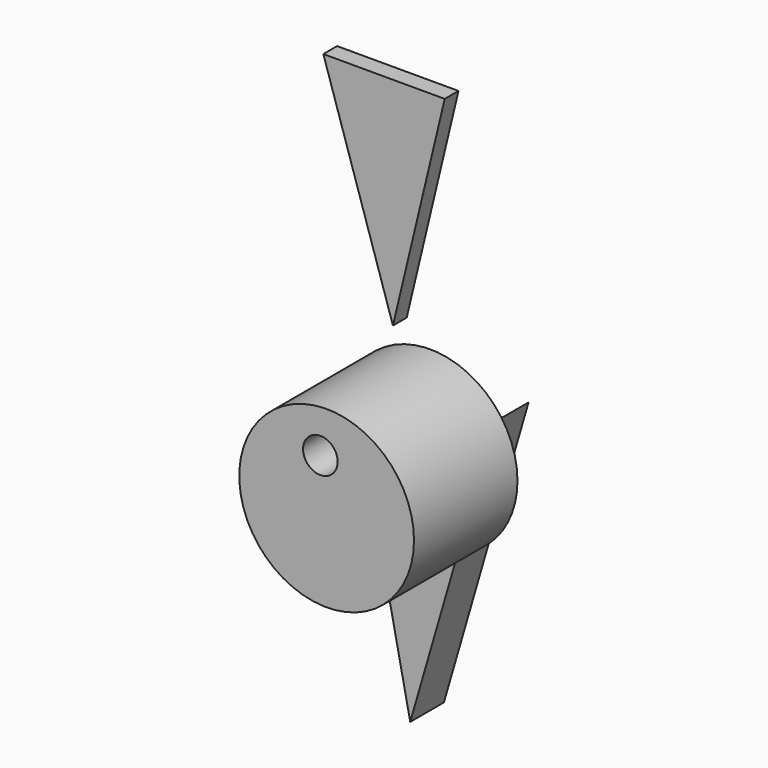
from build123d import *

# Parameters (mm, degrees)
F1_DEPTH = 7.5402432121
F2_DEPTH = 1.4253571862
F3_R     = 18.605552665
F4_DEPTH = 27.5406818837
F6_DEPTH = 3.6672297865
F8_D     = 7.366


with BuildPart() as f1:
    # F0 (on Front) → F1 (new body)
    with BuildSketch(Plane.XZ):
        with BuildLine():
            ThreePointArc((-29.7449376156, -105.363153987), (-42.5752824221, -117.3303519227), (-59.202212781, -111.7288555937))
            Line((-59.202212781, -111.7288555937), (-47.7732121944, -167.4931943417))
            Line((-47.7732121944, -167.4931943417), (-29.7449376156, -105.363153987))
        make_face()
    extrude(amount=-F1_DEPTH)

    # F2 (add): a face of the model
    f2_faces = [f1.faces().sort_by_distance(p)[0] for p in [
        (-46.1184940626, 0, -132.847419827),
    ]]
    extrude(f2_faces, amount=F2_DEPTH)

    # F3 (on Front) → F4 (join)
    with BuildSketch(Plane.XZ):
        with Locations((-44.6806028485, -115.7991886139)):
            Circle(F3_R)
    extrude(amount=F4_DEPTH)

    # F8 (through all)
    with Locations(Plane(origin=(0, 0, 0), x_dir=(1, 0, 0), z_dir=(0, 1, 0))):
        with Locations((-46.0194945335, 106.3432246447)):
            Hole(F8_D / 2)


with BuildPart() as f6:
    # F5 (on Front) → F6 (new body)
    with BuildSketch(Plane.XZ):
        Polygon((-64.4827634096, -46.8071959913), (-49.6632680297, -92.8986370564), (-38.6338308454, -46.8071959913), align=None)
    extrude(amount=F6_DEPTH)


solid = Compound([f1.part, f6.part])
